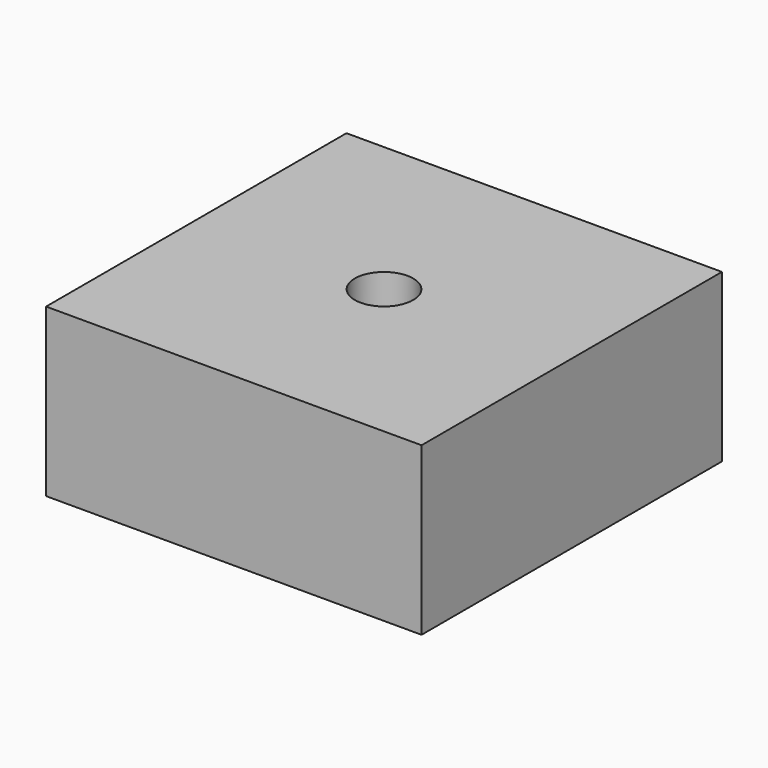
from build123d import *

# Parameters (mm, degrees)
F0_W     = 90
F0_H     = 90
F0_R     = 7
F1_DEPTH = 40
F2_R     = 15
F3_DEPTH = 15


with BuildPart() as f1:
    # F0 (on Top) → F1 (new body)
    with BuildSketch(Plane.XY):
        with Locations((45, 45)):
            Rectangle(F0_W, F0_H)
        with Locations((45, 45)):
            Circle(F0_R, mode=Mode.SUBTRACT)
    extrude(amount=F1_DEPTH)

    # F2 (on face) → F3 (cut)
    with BuildSketch(Plane(origin=(0, 0, 0), x_dir=(1, 0, 0), z_dir=(0, 0, -1))):
        with Locations((45, -45)):
            Circle(F2_R)
    extrude(amount=-F3_DEPTH, mode=Mode.SUBTRACT)


solid = f1.part
